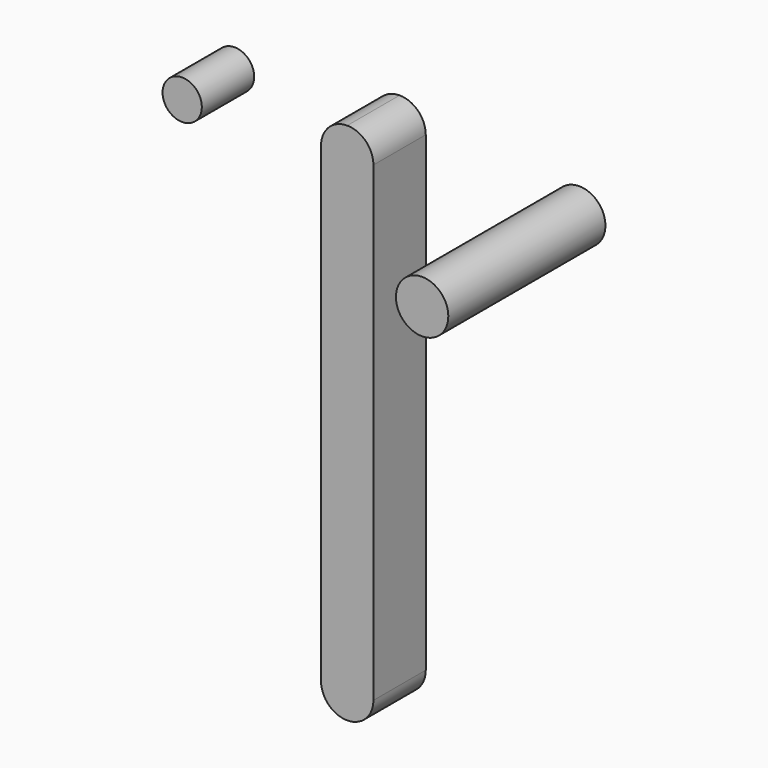
from build123d import *

# Parameters (mm, degrees)
F2_R     = 2
F3_DEPTH = 15
F1_R     = 1.5
F4_DEPTH = 5
F5_DEPTH = 5


with BuildPart() as f3:
    # F2 (on Front) → F3 (new body)
    with BuildSketch(Plane.XZ):
        with Locations((13.721123, 16.355488)):
            Circle(F2_R)
    extrude(amount=F3_DEPTH)


with BuildPart() as f4:
    # F1 (on Front) → F4 (new body)
    with BuildSketch(Plane.XZ):
        with Locations((-12.605198, 17.636321)):
            Circle(F1_R)
    extrude(amount=F4_DEPTH)


with BuildPart() as f5:
    # F0 (on Front) → F5 (new body)
    with BuildSketch(Plane.XZ):
        with BuildLine():
            Line((2, -18), (2, 18))
            ThreePointArc((2, 18), (1.414214, 19.414214), (0, 20))
            ThreePointArc((0, 20), (-1.414214, 19.414214), (-2, 18))
            Line((-2, 18), (-2, -18))
            ThreePointArc((-2, -18), (-1.414214, -19.414214), (0, -20))
            ThreePointArc((0, -20), (1.414214, -19.414214), (2, -18))
        make_face()
    extrude(amount=F5_DEPTH)


solid = Compound([f3.part, f4.part, f5.part])
